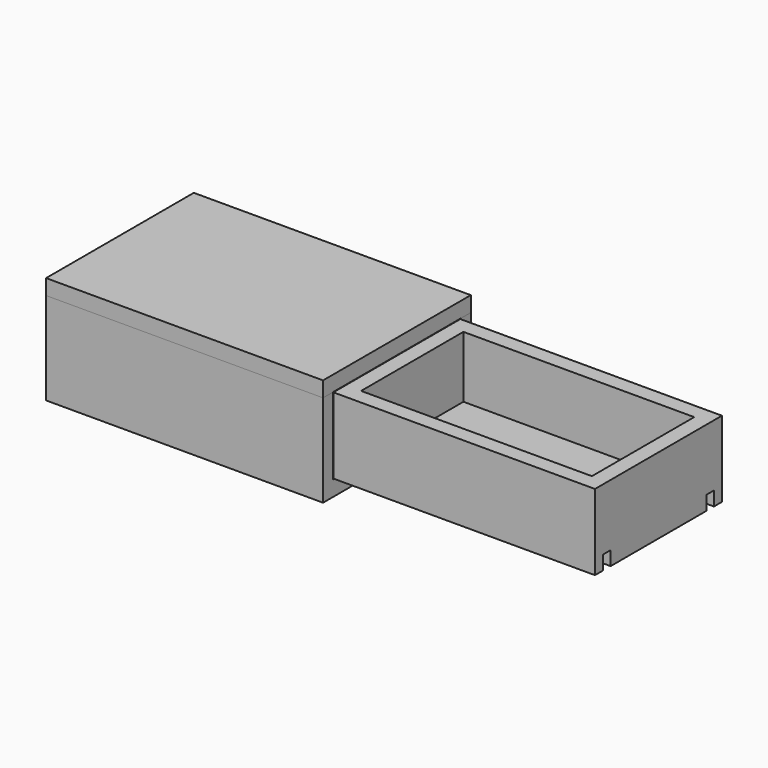
from build123d import *

# Parameters (mm, degrees)
F0_W      = 114.3
F0_H      = 76.2
F1_DEPTH  = 6.35
F2_W      = 3.910894
F2_H      = 6.35
F3_DEPTH  = 114.3
F4_W      = 114.3
F4_H      = 5.08
F5_DEPTH  = 31.75
F6_W      = 65.488312
F6_H      = 31.328192
F7_DEPTH  = 107.95
F3_FACE_W = 3.910894
F3_FACE_H = 6.35
F8_DEPTH  = 139.7
F9_W      = 95.25
F9_H      = 52.788312
F11_DEPTH = 25.4
F10_W     = 114.3
F10_H     = 76.2
F12_DEPTH = 6.35


with BuildPart() as f1:
    # F0 (on Top) → F1 (new body)
    with BuildSketch(Plane.XY):
        Rectangle(F0_W, F0_H)
    extrude(amount=F1_DEPTH)

    # F4 (on face) → F5 (join)
    with BuildSketch(Plane.XY.offset(6.35)):
        with Locations((0, 35.56)):
            Rectangle(F4_W, F4_H)
        with Locations((0, -35.56)):
            Rectangle(F4_W, F4_H)
    extrude(amount=F5_DEPTH)


with BuildPart() as f3:
    # F2 (on face) → F3 (new body)
    with BuildSketch(Plane(origin=(-57.15, 0, 0), x_dir=(0, -1, 0), z_dir=(-1, 0, 0))):
        with Locations((-26.650668, 9.27593)):
            Rectangle(F2_W, F2_H)
        with Locations((26.650668, 9.27593)):
            Rectangle(F2_W, F2_H)
    extrude(amount=-F3_DEPTH)


with BuildPart() as f7:
    # F6 (on face) → F7 (new body)
    with BuildSketch(Plane.YZ.offset(57.15)):
        with Locations((-0.023877, 22.279591)):
            Rectangle(F6_W, F6_H)
    extrude(amount=F7_DEPTH)

    # F3_face (on face) → F8 (cut)
    with BuildSketch(Plane(origin=(57.15, -26.650668, 9.27593), x_dir=(0, -1, 0), z_dir=(1, 0, 0))):
        Rectangle(F3_FACE_W, F3_FACE_H)
        with Locations((-53.301336, 0)):
            Rectangle(F3_FACE_W, F3_FACE_H)
    extrude(amount=F8_DEPTH, mode=Mode.SUBTRACT)

    # F9 (on face) → F11 (cut)
    with BuildSketch(Plane.XY.offset(37.943687)):
        with Locations((111.125, -0.023877)):
            Rectangle(F9_W, F9_H)
    extrude(amount=-F11_DEPTH, mode=Mode.SUBTRACT)


with BuildPart() as f12:
    # F10 (on face) → F12 (new body)
    with BuildSketch(Plane.XY.offset(38.1)):
        Rectangle(F10_W, F10_H)
    extrude(amount=F12_DEPTH)


solid = Compound([f1.part, f3.part, f7.part, f12.part])
